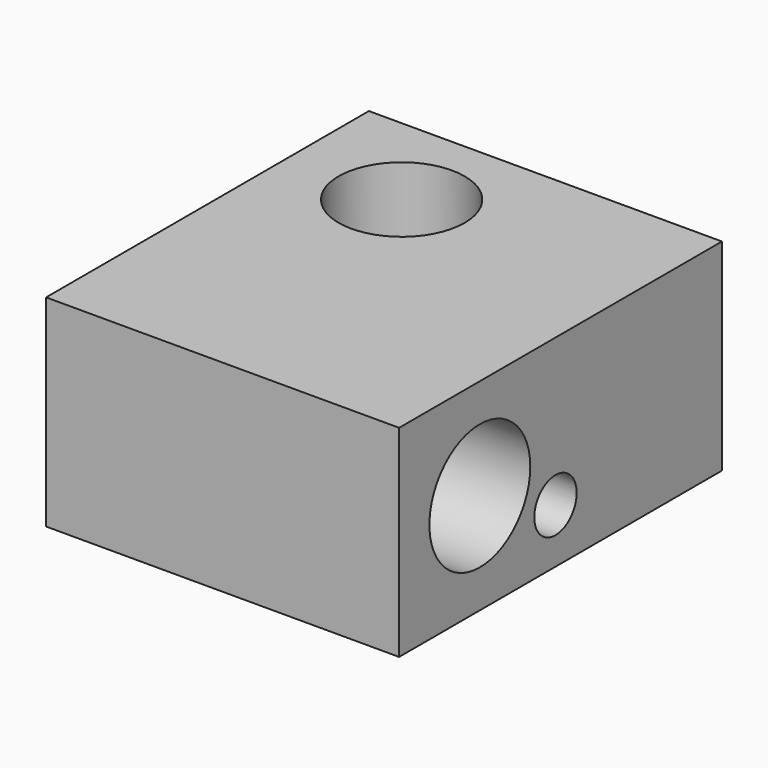
from build123d import *

# Parameters (mm, degrees)
BOX002_W              = 14
BOX002_H              = 16
BOX002_DEPTH          = 8
SKETCH003_R           = 2.5
POCKET001002002_DEPTH = 8
SKETCH004_R           = 2.5
SKETCH004_R_2         = 1.05
POCKET001002003_DEPTH = 14


with BuildPart() as part:
    # Box002 → Box002 (new body)
    with BuildSketch(Plane(origin=(-4.5, -12, -16), x_dir=(1, 0, 0), z_dir=(0, 0, 1))):
        with Locations((7, 8)):
            Rectangle(BOX002_W, BOX002_H)
    extrude(amount=BOX002_DEPTH)

    # Sketch003 → Pocket001002002 (cut)
    with BuildSketch(Plane(origin=(-4.5, -12, -8), x_dir=(1, 0, 0), z_dir=(0, 0, 1))):
        with Locations((4.5, 12)):
            Circle(SKETCH003_R)
    extrude(amount=-POCKET001002002_DEPTH, mode=Mode.SUBTRACT)

    # Sketch004 → Pocket001002003 (cut)
    with BuildSketch(Plane(origin=(9.5, -12, -16), x_dir=(0, 1, 0), z_dir=(1, 0, 0))):
        with Locations((4, 4)):
            Circle(SKETCH004_R)
        with Locations((7.75, 2.15)):
            Circle(SKETCH004_R_2)
    extrude(amount=-POCKET001002003_DEPTH, mode=Mode.SUBTRACT)


solid = part.part
